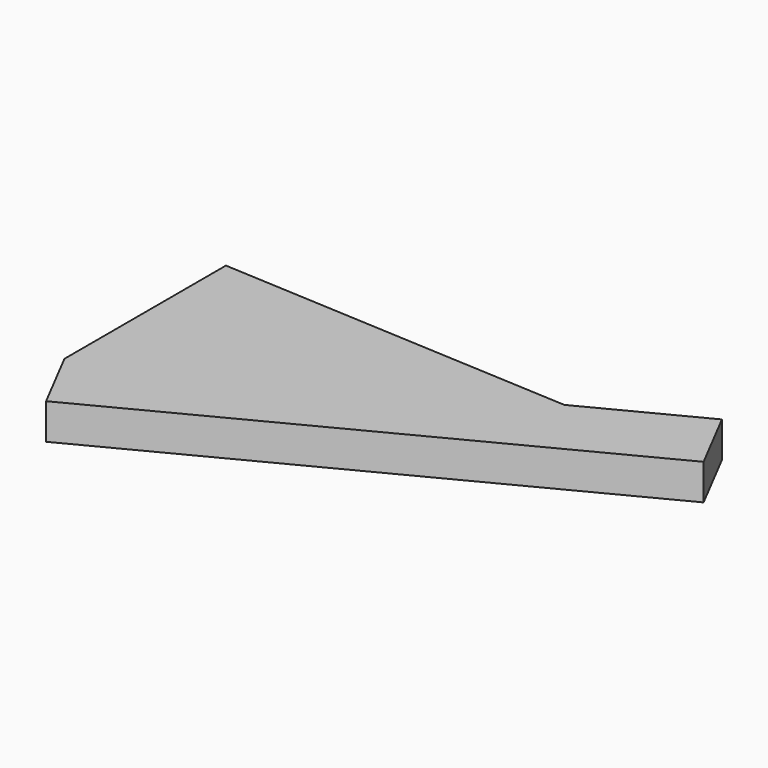
from build123d import *

# Parameters (mm, degrees)
F1_DEPTH = 10.922
F2_DEPTH = 22.352
F3_DEPTH = 38.354


with BuildPart() as f1:
    # F0 (on Top) → F1 (new body)
    with BuildSketch(Plane.XY):
        Polygon((-132.1051865816, 51.4431856573), (-132.1051865816, -10.2472146973), (-24.0534823388, 45.6737391651), align=None)
        Polygon((-132.1051865816, 51.4431856573), (-132.1051865816, -10.2472146973), (-24.0534823388, 45.6737391651), align=None)
    extrude(amount=F1_DEPTH)

    # F2 (add): a face of the model
    f2_faces = [f1.faces().sort_by_distance(p)[0] for p in [
        (-78.0793344602, 17.7132622339, 5.461),
    ]]
    extrude(f2_faces, amount=F2_DEPTH)

    # F3 (add): a face of the model
    f3_faces = [f1.faces().sort_by_distance(p)[0] for p in [
        (-18.9166426466, 35.7482238648, 5.461),
    ]]
    extrude(f3_faces, amount=F3_DEPTH)


solid = f1.part
